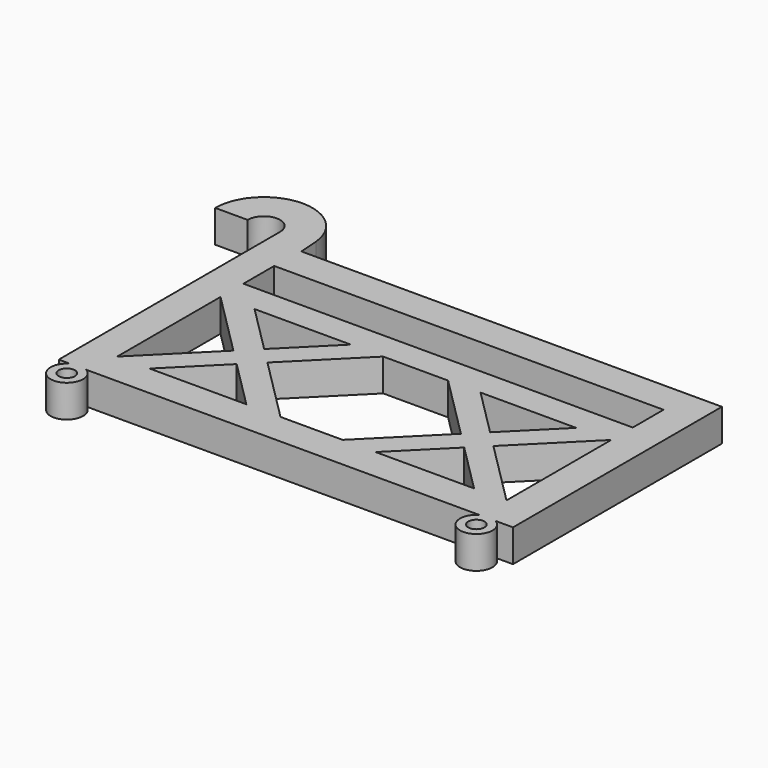
from build123d import *

# Parameters (mm, degrees)
SKETCH_R  = 0.5
SKETCH_W  = 24
SKETCH_H  = 2.370283
PAD_DEPTH = 2


with BuildPart() as part:
    # Sketch → Pad (new body)
    with BuildSketch(Plane.XY):
        with BuildLine():
            Line((-11.923108, 6.1), (14, 6.1))
            Line((14, 6.1), (14, -10))
            Line((12.932709, -10), (14, -10))
            ThreePointArc((11.932709, -10), (12.432709, -11.866025), (12.932709, -10))
            Line((-12.308759, -10), (11.932709, -10))
            ThreePointArc((-13.308759, -10), (-12.808759, -11.866025), (-12.308759, -10))
            Line((-14, -10), (-13.308759, -10))
            Line((-14, -10), (-14, 7.051026))
            ThreePointArc((-14, 7.051026), (-15.000062, 8.051026), (-16, 7.050903))
            Line((-18, 7.050903), (-16, 7.050903))
            ThreePointArc((-12.011962, 7.318663), (-15.134013, 10.048032), (-18, 7.050903))
            Line((-12.011962, 7.318663), (-11.923108, 6.1))
        make_face()
        with Locations((-12.808759, -10.866025)):
            Circle(SKETCH_R, mode=Mode.SUBTRACT)
        with Locations((12.432709, -10.866025)):
            Circle(SKETCH_R, mode=Mode.SUBTRACT)
        with Locations((0, 2.914858)):
            Rectangle(SKETCH_W, SKETCH_H, mode=Mode.SUBTRACT)
        Polygon((-12, -8), (-12, -0.037073), (-8.018537, -4.018537), align=None, mode=Mode.SUBTRACT)
        Polygon((-9.930922, 0), (-6.965461, -2.965461), (-4, 0), align=None, mode=Mode.SUBTRACT)
        Polygon((2, 0), (5.947956, -3.947956), (1.895912, -8), (-1.930922, -8), (-5.965461, -3.965461), (-2, 0), align=None, mode=Mode.SUBTRACT)
        Polygon((4, 0), (6.947956, -2.947956), (9.895912, 0), align=None, mode=Mode.SUBTRACT)
        Polygon((-10, -8), (-7.018537, -5.018537), (-4.037073, -8), align=None, mode=Mode.SUBTRACT)
        Polygon((3.930883, -8), (6.965441, -4.965441), (10, -8), align=None, mode=Mode.SUBTRACT)
        Polygon((7.965441, -3.965441), (12, 0.069117), (12, -8), align=None, mode=Mode.SUBTRACT)
    extrude(amount=PAD_DEPTH)


solid = part.part
